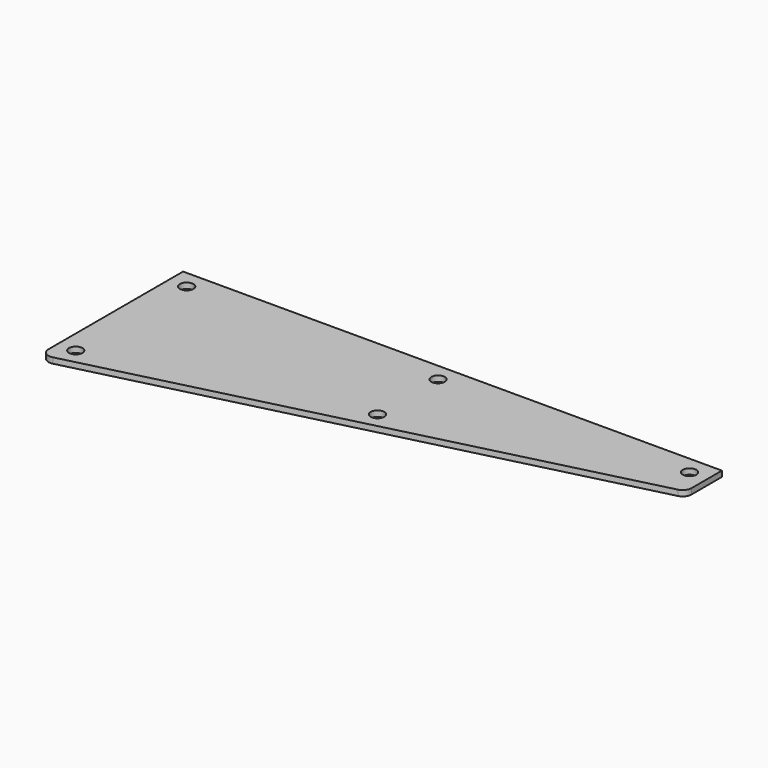
from build123d import *

# Parameters (mm, degrees)
F1_DEPTH = 3.175
F2_R     = 3.81
F3_DEPTH = 25.4


with BuildPart() as f1:
    # F0 (on Top) → F1 (new body)
    with BuildSketch(Plane.XY):
        with BuildLine():
            Line((0, -21.433656), (0, 0))
            Line((0, 0), (-304.8, 0))
            Line((-304.8, 0), (-304.8, -95.093656))
            ThreePointArc((-304.8, -95.093656), (-302.846294, -99.097739), (-298.487919, -100.02198))
            Line((-298.487919, -100.02198), (-3.847919, -26.36198))
            ThreePointArc((-3.847919, -26.36198), (-1.075916, -24.55995), (0, -21.433656))
        make_face()
    extrude(amount=F1_DEPTH)

    # F2 (on face) → F3 (cut)
    with BuildSketch(Plane.XY.offset(3.175)):
        with Locations((-294.64, -10.16)):
            Circle(F2_R)
        with Locations((-152.4, -10.16)):
            Circle(F2_R)
        with Locations((-152.4, -53.027312)):
            Circle(F2_R)
        with Locations((-294.64, -88.587312)):
            Circle(F2_R)
        with Locations((-10.16, -10.16)):
            Circle(F2_R)
    extrude(amount=-F3_DEPTH, mode=Mode.SUBTRACT)


solid = f1.part
